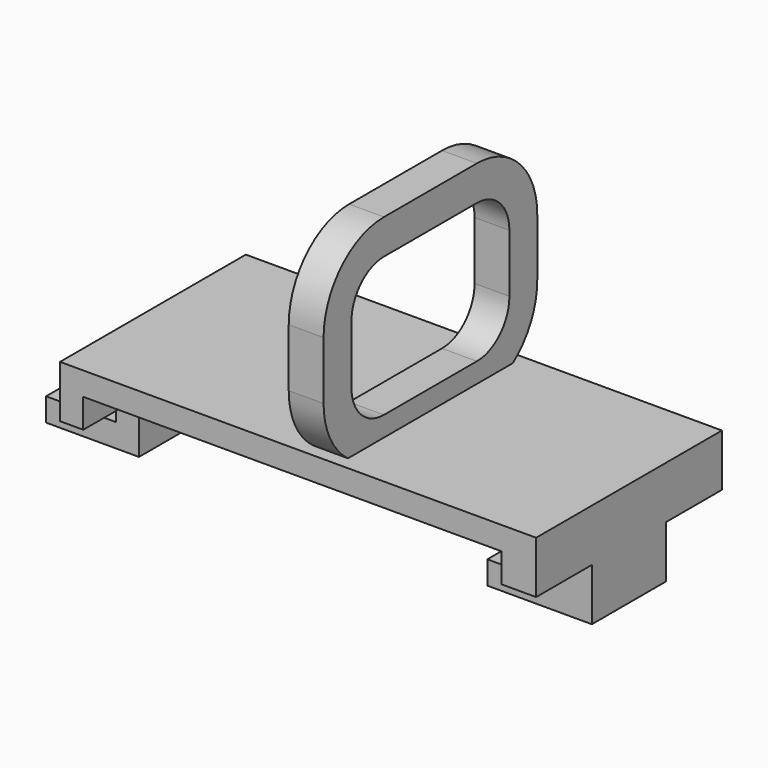
from build123d import *

# Parameters (mm, degrees)
F1_DEPTH = 10
F3_DEPTH = 6
F2_W     = 2
F2_H     = 2.5
F2_W_2   = 3
F4_DEPTH = 6
F6_W     = 3
F6_H     = 3


with BuildPart() as f1:
    # F0 (on Front) → F1 (new body)
    with BuildSketch(Plane.XZ):
        Polygon((-22.397178, 0), (-28.397178, 0), (-28.397178, -2), (-20.397178, -2), (-20.397178, 5), (13.602822, 5), (15.602822, 5), (15.602822, 0), (9.602822, 0), (9.602822, -2), (18.602822, -2), (18.602822, 7), (-22.397178, 7), align=None)
    extrude(amount=F1_DEPTH)

    # F2 (on face) → F3 (cut)
    with BuildSketch(Plane.XZ.offset(10)):
        Polygon((-20.397178, 0), (-22.397178, 0), (-28.397178, 0), (-28.397178, -2), (-20.397178, -2), align=None)
        Polygon((18.602822, -2), (18.602822, 0), (15.602822, 0), (9.602822, 0), (9.602822, -2), align=None)
    extrude(amount=-F3_DEPTH, mode=Mode.SUBTRACT)

    # F2 (on face) → F4 (cut)
    with BuildSketch(Plane.XZ.offset(10)):
        with Locations((-21.397178, 1.25)):
            Rectangle(F2_W, F2_H)
        with Locations((17.102822, 1.25)):
            Rectangle(F2_W_2, F2_H)
    extrude(amount=-F4_DEPTH, mode=Mode.SUBTRACT)

    # F7: sweep along a path in F5
    with BuildLine(Plane.YZ) as f7_path:
        Line((0, 7.219068), (-5, 7.219068))
        ThreePointArc((-5, 7.219068), (-8.535534, 8.683534), (-10, 12.219068))
        Line((-10, 12.219068), (-10, 17.219068))
        ThreePointArc((-10, 17.219068), (-8.535534, 20.754602), (-5, 22.219068))
        Line((-5, 22.219068), (0, 22.219068))
    # F6 (on Front) → F7 (sweep)
    with BuildSketch(Plane.XZ):
        with Locations((0, 7.219068)):
            Rectangle(F6_W, F6_H)
    sweep(path=f7_path.line)

    # F8: F1 across plane


with BuildPart() as f1_1:
    add(f1.part)
    add(f1.part.mirror(Plane.XZ))


solid = f1_1.part
